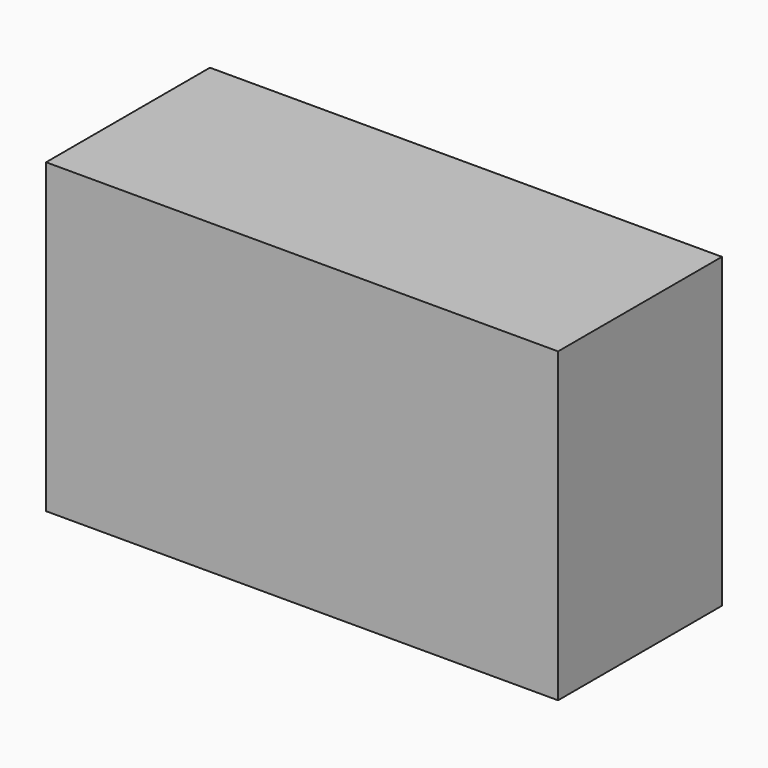
from build123d import *

# Parameters (mm, degrees)
F0_W     = 127
F0_H     = 76.2
F1_DEPTH = 50.8
F2_R     = 12.7
F3_DEPTH = 38.1
F4_R     = 10.982907
F5_DEPTH = 76.2


with BuildPart() as f1:
    # F0 (on Front) → F1 (new body)
    with BuildSketch(Plane.XZ):
        with Locations((3.876453, -23.385659)):
            Rectangle(F0_W, F0_H)
    extrude(amount=F1_DEPTH)

    # F2 (on face) → F3 (cut)
    with BuildSketch(Plane(origin=(0, 0, 0), x_dir=(-1, 0, 0), z_dir=(0, 1, 0))):
        with Locations((-3.876453, -23.385659)):
            Circle(F2_R)
    extrude(amount=-F3_DEPTH, mode=Mode.SUBTRACT)

    # F4 (on face) → F5 (cut)
    with BuildSketch(Plane(origin=(-59.623547, 0, 0), x_dir=(0, -1, 0), z_dir=(-1, 0, 0))):
        with Locations((25.4, -23.385659)):
            Circle(F4_R)
    extrude(amount=-F5_DEPTH, mode=Mode.SUBTRACT)


solid = f1.part
